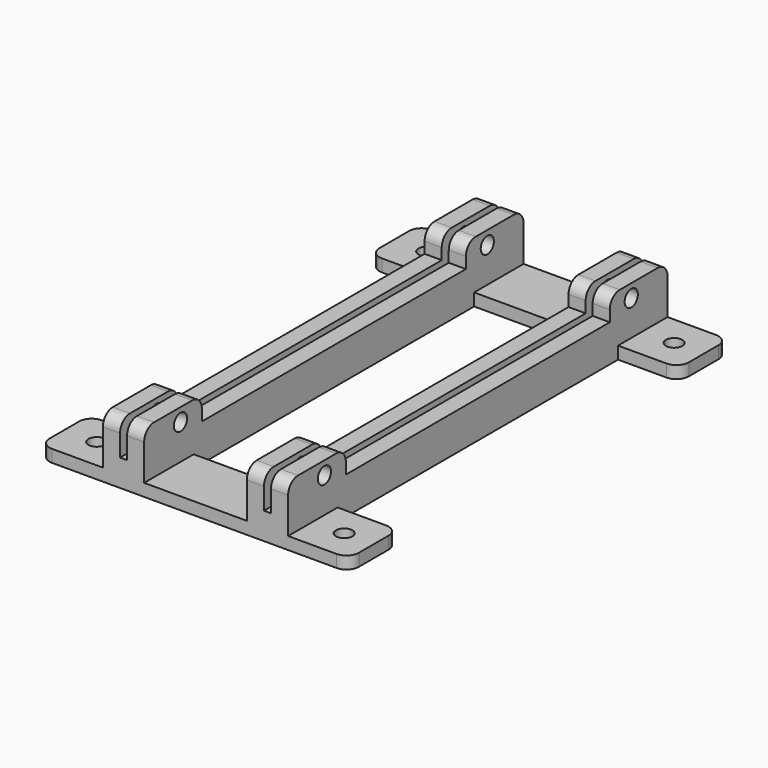
from build123d import *

# Parameters (mm, degrees)
SKETCH_R          = 2
SKETCH_W          = 24.9
SKETCH_H          = 85
PAD_DEPTH         = 3
SKETCH001_W       = 4.15
SKETCH001_H       = 115
PAD001_DEPTH      = 11.7
SKETCH002_R       = 2
SKETCH002_W       = 80
SKETCH002_H       = 6
POCKET_DEPTH      = 50
POCKET_DEPTH_BACK = -100
SKETCH003_W       = 4
SKETCH003_H       = 115
PAD002_DEPTH      = 3.5
FILLET_R          = 3
FILLET001_R       = 3
FILLET002_R       = 3
FILLET003_R       = 3
FILLET004_R       = 3
FILLET005_R       = 3
FILLET006_R       = 3
FILLET007_R       = 3
FILLET008_R       = 3
FILLET009_R       = 3
FILLET010_R       = 3
FILLET011_R       = 3
FILLET012_R       = 3
FILLET013_R       = 3
FILLET014_R       = 3
FILLET015_R       = 3
FILLET016_R       = 3
FILLET017_R       = 3
FILLET018_R       = 3
FILLET019_R       = 3
FILLET020_R       = 3
FILLET021_R       = 3
FILLET022_R       = 3
FILLET023_R       = 3


with BuildPart() as part:
    # Sketch → Pad (new body)
    with BuildSketch(Plane.XY):
        Polygon((54.65, -57.5), (-20.35, -57.5), (-20.35, -42.5), (-5, -42.5), (-5, 42.5), (-20.35, 42.5), (-20.35, 57.5), (54.65, 57.5), (54.65, 42.5), (39.9, 42.5), (39.9, -42.5), (54.65, -42.5), align=None)
        with Locations((-12.5, 50)):
            Circle(SKETCH_R, mode=Mode.SUBTRACT)
        with Locations((47.5, 50)):
            Circle(SKETCH_R, mode=Mode.SUBTRACT)
        with Locations((-12.5, -50)):
            Circle(SKETCH_R, mode=Mode.SUBTRACT)
        with Locations((47.5, -50)):
            Circle(SKETCH_R, mode=Mode.SUBTRACT)
        with Locations((17.45, 0)):
            Rectangle(SKETCH_W, SKETCH_H, mode=Mode.SUBTRACT)
    extrude(amount=PAD_DEPTH)

    # Sketch001 → Pad001 (join)
    with BuildSketch(Plane.XY.offset(3)):
        with Locations((-2.925, 0)):
            Rectangle(SKETCH001_W, SKETCH001_H)
        with Locations((2.925, 0)):
            Rectangle(SKETCH001_W, SKETCH001_H)
        with Locations((31.975, 0)):
            Rectangle(SKETCH001_W, SKETCH001_H)
        with Locations((37.825, 0)):
            Rectangle(SKETCH001_W, SKETCH001_H)
    extrude(amount=PAD001_DEPTH)

    # Sketch002 → Pocket (cut, two sides)
    with BuildSketch(Plane.YZ.offset(5)) as pocket_sk:
        with Locations((-46.5, 11.5)):
            Circle(SKETCH002_R)
        with Locations((46.5, 11.5)):
            Circle(SKETCH002_R)
        with Locations((0, 12)):
            Rectangle(SKETCH002_W, SKETCH002_H)
    extrude(amount=-POCKET_DEPTH, mode=Mode.SUBTRACT)
    extrude(pocket_sk.sketch, amount=-POCKET_DEPTH_BACK, mode=Mode.SUBTRACT)

    # Sketch003 → Pad002 (join)
    with BuildSketch(Plane.XY.offset(3)):
        Rectangle(SKETCH003_W, SKETCH003_H)
        with Locations((35.05, 0)):
            Rectangle(SKETCH003_W, SKETCH003_H)
    extrude(amount=PAD002_DEPTH)

    # Fillet
    fillet_edges = [part.edges().sort_by_distance(p)[0] for p in [
        (-2.925, -57.5, 14.7),
    ]]
    fillet(fillet_edges, radius=FILLET_R)

    # Fillet001
    fillet001_edges = [part.edges().sort_by_distance(p)[0] for p in [
        (2.925, -57.5, 14.7),
    ]]
    fillet(fillet001_edges, radius=FILLET001_R)

    # Fillet002
    fillet002_edges = [part.edges().sort_by_distance(p)[0] for p in [
        (31.975, -57.5, 14.7),
    ]]
    fillet(fillet002_edges, radius=FILLET002_R)

    # Fillet003
    fillet003_edges = [part.edges().sort_by_distance(p)[0] for p in [
        (37.825, -57.5, 14.7),
    ]]
    fillet(fillet003_edges, radius=FILLET003_R)

    # Fillet004
    fillet004_edges = [part.edges().sort_by_distance(p)[0] for p in [
        (37.825, -40, 14.7),
    ]]
    fillet(fillet004_edges, radius=FILLET004_R)

    # Fillet005
    fillet005_edges = [part.edges().sort_by_distance(p)[0] for p in [
        (31.975, -40, 14.7),
    ]]
    fillet(fillet005_edges, radius=FILLET005_R)

    # Fillet006
    fillet006_edges = [part.edges().sort_by_distance(p)[0] for p in [
        (-2.925, -40, 14.7),
    ]]
    fillet(fillet006_edges, radius=FILLET006_R)

    # Fillet007
    fillet007_edges = [part.edges().sort_by_distance(p)[0] for p in [
        (2.925, -40, 14.7),
    ]]
    fillet(fillet007_edges, radius=FILLET007_R)

    # Fillet008
    fillet008_edges = [part.edges().sort_by_distance(p)[0] for p in [
        (54.65, -57.5, 1.5),
    ]]
    fillet(fillet008_edges, radius=FILLET008_R)

    # Fillet009
    fillet009_edges = [part.edges().sort_by_distance(p)[0] for p in [
        (54.65, -42.5, 1.5),
    ]]
    fillet(fillet009_edges, radius=FILLET009_R)

    # Fillet010
    fillet010_edges = [part.edges().sort_by_distance(p)[0] for p in [
        (54.65, 42.5, 1.5),
    ]]
    fillet(fillet010_edges, radius=FILLET010_R)

    # Fillet011
    fillet011_edges = [part.edges().sort_by_distance(p)[0] for p in [
        (54.65, 57.5, 1.5),
    ]]
    fillet(fillet011_edges, radius=FILLET011_R)

    # Fillet012
    fillet012_edges = [part.edges().sort_by_distance(p)[0] for p in [
        (37.825, 40, 14.7),
    ]]
    fillet(fillet012_edges, radius=FILLET012_R)

    # Fillet013
    fillet013_edges = [part.edges().sort_by_distance(p)[0] for p in [
        (31.975, 40, 14.7),
    ]]
    fillet(fillet013_edges, radius=FILLET013_R)

    # Fillet014
    fillet014_edges = [part.edges().sort_by_distance(p)[0] for p in [
        (37.825, 57.5, 14.7),
    ]]
    fillet(fillet014_edges, radius=FILLET014_R)

    # Fillet015
    fillet015_edges = [part.edges().sort_by_distance(p)[0] for p in [
        (31.975, 57.5, 14.7),
    ]]
    fillet(fillet015_edges, radius=FILLET015_R)

    # Fillet016
    fillet016_edges = [part.edges().sort_by_distance(p)[0] for p in [
        (2.925, 40, 14.7),
    ]]
    fillet(fillet016_edges, radius=FILLET016_R)

    # Fillet017
    fillet017_edges = [part.edges().sort_by_distance(p)[0] for p in [
        (-2.925, 40, 14.7),
    ]]
    fillet(fillet017_edges, radius=FILLET017_R)

    # Fillet018
    fillet018_edges = [part.edges().sort_by_distance(p)[0] for p in [
        (-2.925, 57.5, 14.7),
    ]]
    fillet(fillet018_edges, radius=FILLET018_R)

    # Fillet019
    fillet019_edges = [part.edges().sort_by_distance(p)[0] for p in [
        (2.925, 57.5, 14.7),
    ]]
    fillet(fillet019_edges, radius=FILLET019_R)

    # Fillet020
    fillet020_edges = [part.edges().sort_by_distance(p)[0] for p in [
        (-20.35, -57.5, 1.5),
    ]]
    fillet(fillet020_edges, radius=FILLET020_R)

    # Fillet021
    fillet021_edges = [part.edges().sort_by_distance(p)[0] for p in [
        (-20.35, -42.5, 1.5),
    ]]
    fillet(fillet021_edges, radius=FILLET021_R)

    # Fillet022
    fillet022_edges = [part.edges().sort_by_distance(p)[0] for p in [
        (-20.35, 42.5, 1.5),
    ]]
    fillet(fillet022_edges, radius=FILLET022_R)

    # Fillet023
    fillet023_edges = [part.edges().sort_by_distance(p)[0] for p in [
        (-20.35, 57.5, 1.5),
    ]]
    fillet(fillet023_edges, radius=FILLET023_R)


solid = part.part
